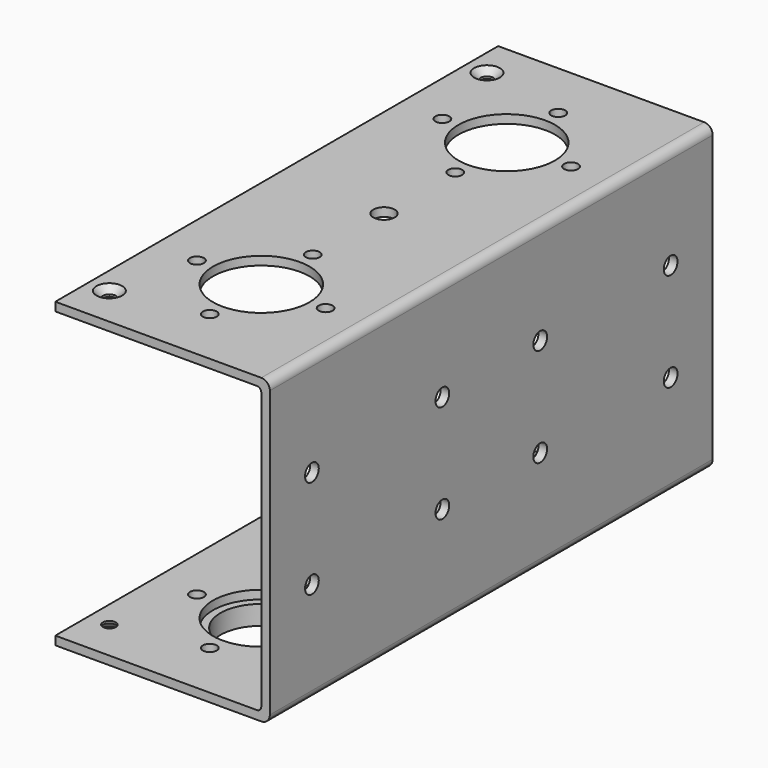
from build123d import *

# Parameters (mm, degrees)
F1_DEPTH  = 258
F2_R      = 22.5
F2_R_2    = 3.25
F3_DEPTH  = 141.001
F2_R_3    = 5
F4_DEPTH  = 4
F5_R      = 4
F6_DEPTH  = 100.001
F7_R      = 3
F8_DEPTH  = 141.001
F9_SIZE2  = 3
F9_SIZE   = 3
F10_R     = 34.5
F10_R_2   = 19
F11_DEPTH = 9
F12_SIZE  = 1


with BuildPart() as f1:
    # F0 (on Front) → F1 (new body)
    with BuildSketch(Plane.XZ):
        with BuildLine():
            Line((0, 4), (0, 0))
            Line((0, 0), (96, 0))
            ThreePointArc((96, 0), (98.8284271247, 1.1715728753), (100, 4))
            Line((100, 4), (100, 137))
            ThreePointArc((100, 137), (98.8284271247, 139.8284271247), (96, 141))
            Line((96, 141), (0, 141))
            Line((0, 141), (0, 137))
            Line((0, 137), (94, 137))
            ThreePointArc((94, 137), (95.4142135624, 136.4142135624), (96, 135))
            Line((96, 135), (96, 6))
            ThreePointArc((96, 6), (95.4142135624, 4.5857864376), (94, 4))
            Line((94, 4), (0, 4))
        make_face()
    extrude(amount=F1_DEPTH)

    # F2 (on face) → F3 (cut, through all)
    with BuildSketch(Plane.XY.offset(141)):
        with Locations((50, -200.5)):
            Circle(F2_R)
        with Locations((50, -87.5)):
            Circle(F2_R_2)
        with Locations((50, -57.5)):
            Circle(F2_R)
        with Locations((20, -57.5)):
            Circle(F2_R_2)
        with Locations((80, -57.5)):
            Circle(F2_R_2)
        with Locations((50, -27.5)):
            Circle(F2_R_2)
        with Locations((50, -170.5)):
            Circle(F2_R_2)
        with Locations((80, -200.5)):
            Circle(F2_R_2)
        with Locations((50, -230.5)):
            Circle(F2_R_2)
        with Locations((20, -200.5)):
            Circle(F2_R_2)
    extrude(amount=-F3_DEPTH, mode=Mode.SUBTRACT)

    # F2 (on face) → F4 (cut, through all)
    with BuildSketch(Plane.XY.offset(141)):
        with Locations((50, -129)):
            Circle(F2_R_3)
    extrude(amount=-F4_DEPTH, mode=Mode.SUBTRACT)

    # F5 (on face) → F6 (cut, through all)
    with BuildSketch(Plane.YZ.offset(100)):
        with Locations((-233.5, 93.5)):
            Circle(F5_R)
        with Locations((-233.5, 47.5)):
            Circle(F5_R)
        with Locations((-157.5, 93.5)):
            Circle(F5_R)
        with Locations((-157.5, 47.5)):
            Circle(F5_R)
        with Locations((-100.5, 93.5)):
            Circle(F5_R)
        with Locations((-100.5, 47.5)):
            Circle(F5_R)
        with Locations((-24.5, 93.5)):
            Circle(F5_R)
        with Locations((-24.5, 47.5)):
            Circle(F5_R)
    extrude(amount=-F6_DEPTH, mode=Mode.SUBTRACT)

    # F7 (on face) → F8 (cut, through all)
    with BuildSketch(Plane.XY.offset(141)):
        with Locations((10, -239)):
            Circle(F7_R)
        with Locations((10, -19)):
            Circle(F7_R)
    extrude(amount=-F8_DEPTH, mode=Mode.SUBTRACT)

    # F9
    f9_edges = [f1.edges().sort_by_distance(p)[0] for p in [
        (7, -19, 141),
        (7, -239, 141),
        (7, -239, 0),
        (7, -19, 0),
    ]]
    chamfer(f9_edges, length=F9_SIZE, length2=F9_SIZE2)

    # F10 (on face) → F11 (join)
    with BuildSketch(Plane(origin=(0, 0, 0), x_dir=(1, 0, 0), z_dir=(0, 0, -1))):
        with Locations((50, 57.5)):
            Circle(F10_R)
        with Locations((50, 57.5)):
            Circle(F10_R_2, mode=Mode.SUBTRACT)
        with Locations((50, 200.5)):
            Circle(F10_R)
        with Locations((50, 200.5)):
            Circle(F10_R_2, mode=Mode.SUBTRACT)
    extrude(amount=F11_DEPTH)

    # F12
    f12_edges = [f1.edges().sort_by_distance(p)[0] for p in [
        (15.5, -200.5, -9),
        (15.5, -57.5, -9),
    ]]
    chamfer(f12_edges, length=F12_SIZE)


solid = f1.part
